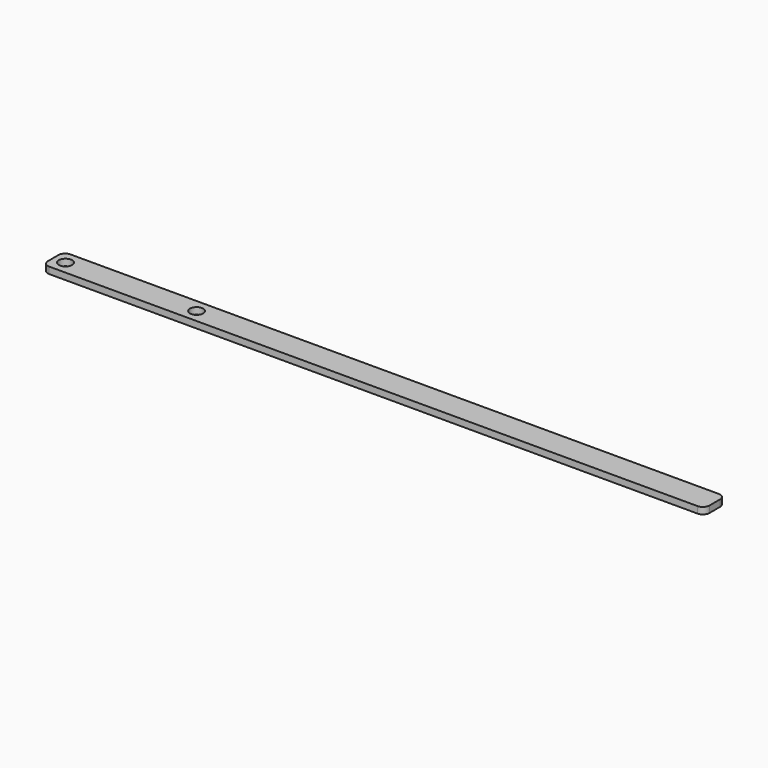
from build123d import *

# Parameters (mm, degrees)
F0_W     = 500
F0_H     = 20
F0_R     = 5
F1_DEPTH = 5
F2_R     = 5


with BuildPart() as f1:
    # F0 (on Top) → F1 (new body)
    with BuildSketch(Plane.XY):
        Rectangle(F0_W, F0_H)
        with Locations((-240.709871, 0)):
            Circle(F0_R, mode=Mode.SUBTRACT)
        with Locations((-141.621947, 0)):
            Circle(F0_R, mode=Mode.SUBTRACT)
    extrude(amount=F1_DEPTH)

    # F2
    f2_edges = [f1.edges().sort_by_distance(p)[0] for p in [
        (250, -10, 2.5),
        (250, 10, 2.5),
        (-250, -10, 2.5),
        (-250, 10, 2.5),
    ]]
    fillet(f2_edges, radius=F2_R)


solid = f1.part
